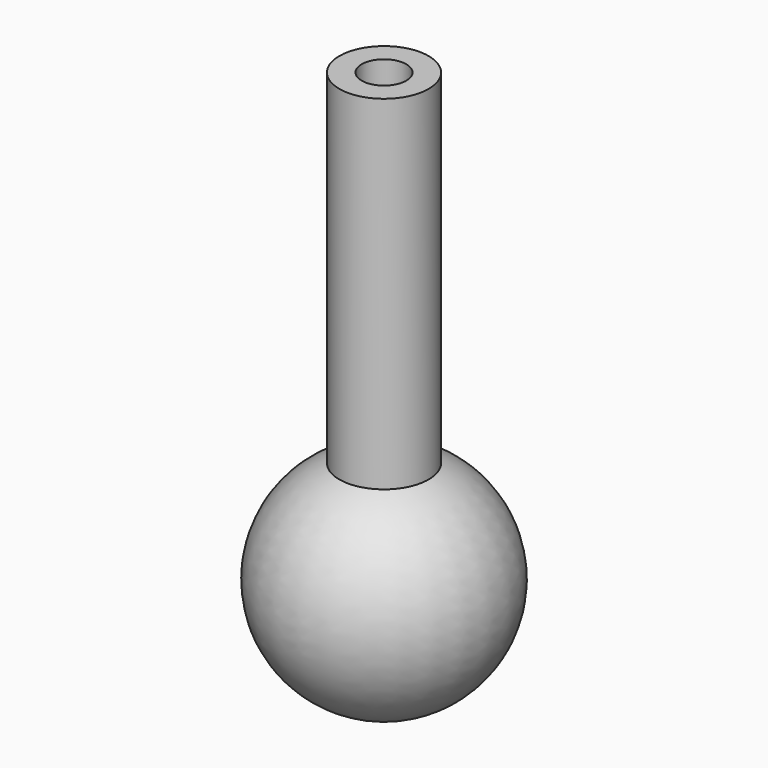
from build123d import *


with BuildPart() as f1:
    # F0 (on Front) → F1 (revolve)
    with BuildSketch(Plane.XZ):
        with BuildLine():
            Line((-25.4, 0), (-25.4, 124.434079))
            ThreePointArc((-25.4, 124.434079), (-38.311316, 121.08362), (-50.8, 116.397423))
            Line((-50.8, 116.397423), (-50.8, 0))
            Line((-50.8, 0), (-25.4, 0))
        make_face()
        with BuildLine():
            ThreePointArc((-50.8, 116.397423), (-38.311316, 121.08362), (-25.4, 124.434079))
            Line((-25.4, 124.434079), (-25.4, 508))
            Line((-25.4, 508), (-50.8, 508))
            Line((-50.8, 508), (-50.8, 116.397423))
        make_face()
        with BuildLine():
            Line((-50.8, 0), (-50.8, 116.397423))
            ThreePointArc((-50.8, 116.397423), (-124.321102, -25.947325), (0, -127))
            Line((0, -127), (0, 0))
            Line((0, 0), (-25.4, 0))
            Line((-25.4, 0), (-50.8, 0))
        make_face()
    revolve(axis=Axis((0, 0, 63.5), (0, 0, 1)))


solid = f1.part
